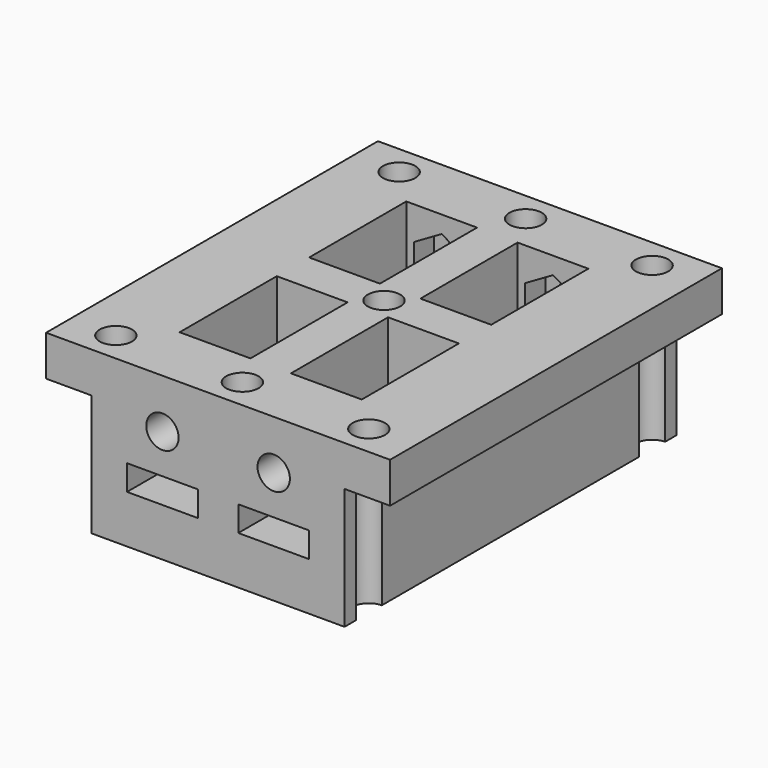
from build123d import *

# Parameters (mm, degrees)
PAD_DEPTH         = 20.5
SKETCH001_R       = 1.6
POCKET_DEPTH      = 16.001
POCKET_DEPTH_BACK = 0.001
POCKET001_DEPTH   = 7
POCKET002_DEPTH   = 1
POCKET003_DEPTH   = 7
SKETCH005_R       = 1.6
POCKET004_DEPTH   = 6.501
POCKET005_DEPTH   = 2.5
SKETCH007_R       = 1.6
POCKET006_DEPTH   = 6.501
POCKET007_DEPTH   = 2.5
SKETCH009_R       = 5
POCKET008_DEPTH   = 4


with BuildPart() as part:
    # Sketch → Pad (new body, symmetric)
    with BuildSketch(Plane.XZ):
        Polygon((12.5, 6), (12.5, -6), (-12.5, -6), (-12.5, 6), (-17, 6), (-17, 10), (17, 10), (17, 6), align=None)
    extrude(amount=PAD_DEPTH, both=True)

    # Sketch001 (on Face6 of Pad) → Pocket (cut, two sides)
    with BuildSketch(Plane(origin=(0, 0, 10), x_dir=(-1, 0, 0), z_dir=(0, 0, 1))) as pocket_sk:
        with Locations((-12.5, 17.5)):
            Circle(SKETCH001_R)
        with Locations((12.5, 17.5)):
            Circle(SKETCH001_R)
        with Locations((0, 17.5)):
            Circle(SKETCH001_R)
        with Locations((-12.5, -17.5)):
            Circle(SKETCH001_R)
        with Locations((12.5, -17.5)):
            Circle(SKETCH001_R)
        Circle(SKETCH001_R)
        with Locations((0, -17.5)):
            Circle(SKETCH001_R)
    extrude(amount=-POCKET_DEPTH, mode=Mode.SUBTRACT)
    extrude(pocket_sk.sketch, amount=POCKET_DEPTH_BACK, mode=Mode.SUBTRACT)

    # Sketch002 (on DatumPlane) → Pocket001 (cut)
    with BuildSketch(Plane.YZ.offset(2)):
        with BuildLine():
            ThreePointArc((-6, -1.25), (-3.171573, -0.078427), (-2, 2.75))
            Line((-2, 2.75), (-2, 10))
            Line((-14, 10), (-2, 10))
            Line((-14, 10), (-14, 1.25))
            Line((-14, 1.25), (-20.5, 1.25))
            Line((-20.5, 1.25), (-20.5, -1.25))
            Line((-20.5, -1.25), (-6, -1.25))
        make_face()
        with BuildLine():
            ThreePointArc((2, 2.75), (3.171573, -0.078427), (6, -1.25))
            Line((20.5, -1.25), (6, -1.25))
            Line((20.5, 1.25), (20.5, -1.25))
            Line((14, 1.25), (20.5, 1.25))
            Line((14, 10), (14, 1.25))
            Line((2, 10), (14, 10))
            Line((2, 2.75), (2, 10))
        make_face()
    extrude(amount=POCKET001_DEPTH, mode=Mode.SUBTRACT)

    # Sketch001 (on Face6 of Pad) → Pocket002 (cut)
    with BuildSketch(Plane(origin=(0, 0, 10), x_dir=(-1, 0, 0), z_dir=(0, 0, 1))):
        with Locations((-12.5, 17.5)):
            Circle(SKETCH001_R)
        with Locations((12.5, 17.5)):
            Circle(SKETCH001_R)
        with Locations((0, 17.5)):
            Circle(SKETCH001_R)
        with Locations((-12.5, -17.5)):
            Circle(SKETCH001_R)
        with Locations((12.5, -17.5)):
            Circle(SKETCH001_R)
        Circle(SKETCH001_R)
        with Locations((0, -17.5)):
            Circle(SKETCH001_R)
    extrude(amount=-POCKET002_DEPTH, mode=Mode.SUBTRACT)

    # Sketch004 (on DatumPlane) → Pocket003 (cut)
    with BuildSketch(Plane.YZ.offset(-2)):
        with BuildLine():
            ThreePointArc((-6, -1.25), (-3.171573, -0.078427), (-2, 2.75))
            Line((-2, 10), (-2, 2.75))
            Line((-2, 10), (-14, 10))
            Line((-14, 10), (-14, 1.25))
            Line((-14, 1.25), (-20.5, 1.25))
            Line((-20.5, 1.25), (-20.5, -1.25))
            Line((-20.5, -1.25), (-6, -1.25))
        make_face()
        with BuildLine():
            ThreePointArc((2, 2.75), (3.171573, -0.078427), (6, -1.25))
            Line((20.5, -1.25), (6, -1.25))
            Line((20.5, 1.25), (20.5, -1.25))
            Line((14, 1.25), (20.5, 1.25))
            Line((14, 10), (14, 1.25))
            Line((2, 10), (14, 10))
            Line((2, 2.75), (2, 10))
        make_face()
    extrude(amount=-POCKET003_DEPTH, mode=Mode.SUBTRACT)

    # Sketch005 (on DatumPlane) → Pocket004 (cut, through all)
    with BuildSketch(Plane.XZ.offset(14)):
        with Locations((-5.5, 5.125)):
            Circle(SKETCH005_R)
        with Locations((5.5, 5.125)):
            Circle(SKETCH005_R)
    extrude(amount=POCKET004_DEPTH, mode=Mode.SUBTRACT)

    # Sketch006 (on DatumPlane) → Pocket005 (cut)
    with BuildSketch(Plane.XZ.offset(14)):
        Polygon((-2.750142, 3.537404), (-2.750142, 6.71283), (-5.500142, 8.300543), (-8.250142, 6.71283), (-8.250142, 3.537404), (-5.500142, 1.94969), align=None)
        Polygon((9.85, 3.537287), (9.85, 6.712713), (7.1, 8.300426), (4.35, 6.712713), (4.35, 3.537287), (7.1, 1.949574), align=None)
    extrude(amount=POCKET005_DEPTH, mode=Mode.SUBTRACT)

    # Sketch007 (on DatumPlane) → Pocket006 (cut, through all)
    with BuildSketch(Plane.XZ.offset(-14)):
        with Locations((-5.5, 5.125)):
            Circle(SKETCH007_R)
        with Locations((5.5, 5.125)):
            Circle(SKETCH007_R)
    extrude(amount=-POCKET006_DEPTH, mode=Mode.SUBTRACT)

    # Sketch008 (on DatumPlane) → Pocket007 (cut)
    with BuildSketch(Plane.XZ.offset(-14)):
        Polygon((-2.75, 3.537287), (-2.75, 6.712713), (-5.5, 8.300426), (-8.25, 6.712713), (-8.25, 3.537287), (-5.5, 1.949574), align=None)
        Polygon((8.25, 3.537287), (8.25, 6.712713), (5.5, 8.300426), (2.75, 6.712713), (2.75, 3.537287), (5.5, 1.949574), align=None)
    extrude(amount=-POCKET007_DEPTH, mode=Mode.SUBTRACT)

    # Sketch009 (on DatumPlane) → Pocket008 (cut)
    with BuildSketch(Plane.XY.offset(-6)):
        with Locations((-7.4, 0)):
            Circle(SKETCH009_R)
        with Locations((7.4, 0)):
            Circle(SKETCH009_R)
    extrude(amount=POCKET008_DEPTH, mode=Mode.SUBTRACT)


solid = part.part
